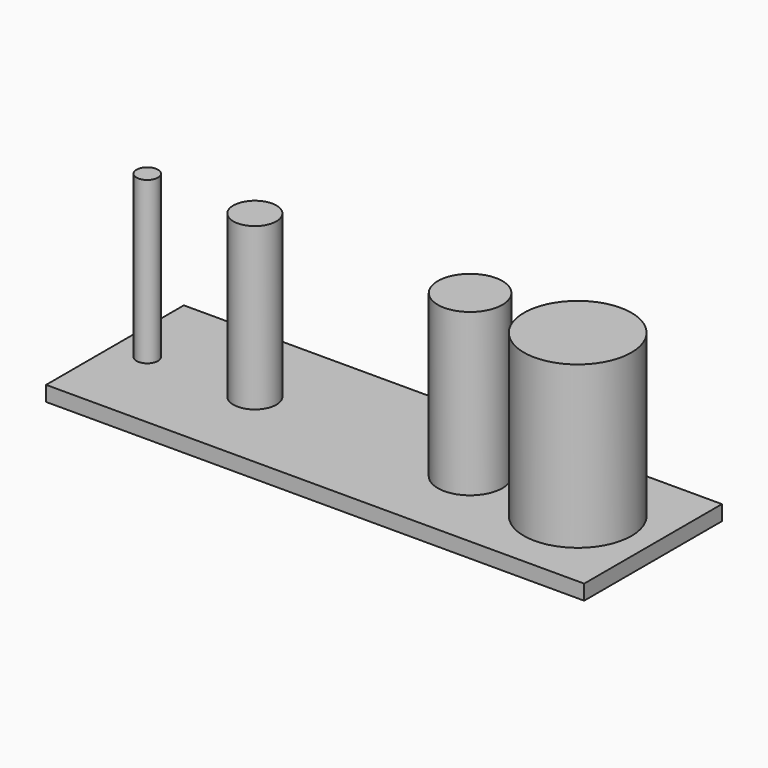
from build123d import *

# Parameters (mm, degrees)
F0_R     = 1
F0_R_2   = 1.5
F0_R_3   = 0.5
F0_R_4   = 2.5
F1_DEPTH = 7.5
F2_W     = 25
F2_H     = 8
F3_DEPTH = 0.7


with BuildPart() as f1:
    # F0 (on Top) → F1 (new body)
    with BuildSketch(Plane.XY):
        with Locations((-5, 0)):
            Circle(F0_R)
        with Locations((5, 0)):
            Circle(F0_R_2)
        with Locations((-10, 0)):
            Circle(F0_R_3)
        with Locations((10, 0)):
            Circle(F0_R_4)
    extrude(amount=F1_DEPTH)


with BuildPart() as f3:
    # F2 (on Top) → F3 (new body)
    with BuildSketch(Plane.XY):
        with Locations((1, 0)):
            Rectangle(F2_W, F2_H)
    extrude(amount=-F3_DEPTH)


solid = Compound([f1.part, f3.part])
